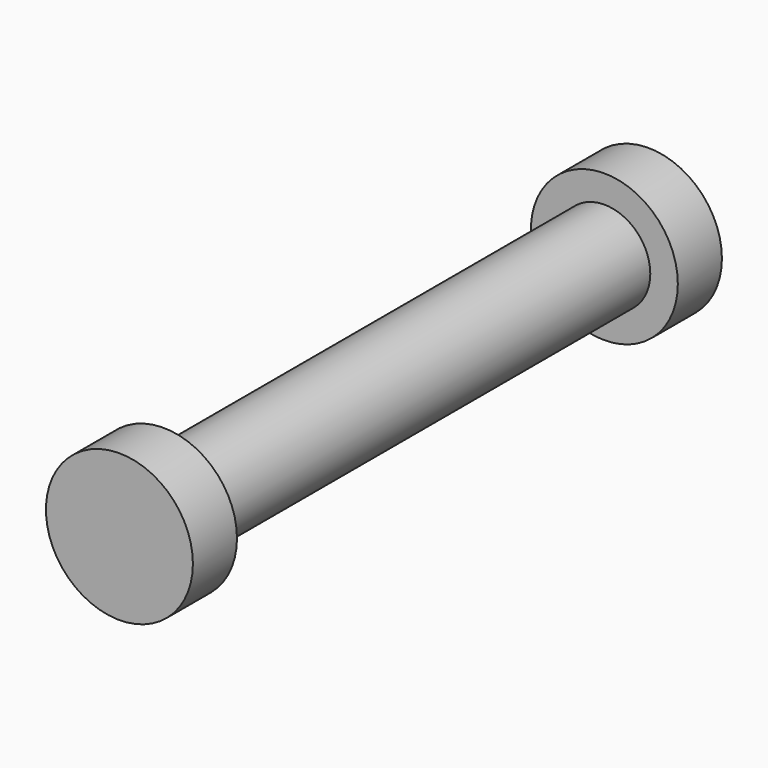
from build123d import *

# Parameters (mm, degrees)
F0_R     = 4
F1_DEPTH = 3
F2_R     = 2.5
F3_DEPTH = 30
F4_R     = 4
F4_R_2   = 2.5
F5_DEPTH = 3


with BuildPart() as f1:
    # F0 (on Front) → F1 (new body)
    with BuildSketch(Plane.XZ):
        Circle(F0_R)
    extrude(amount=F1_DEPTH)

    # F2 (on face) → F3 (join)
    with BuildSketch(Plane.XZ.offset(3)):
        Circle(F2_R)
    extrude(amount=F3_DEPTH)

    # F4 (on face) → F5 (join)
    with BuildSketch(Plane.XZ.offset(33)):
        Circle(F4_R)
        Circle(F4_R_2, mode=Mode.SUBTRACT)
        Circle(F4_R_2)
    extrude(amount=F5_DEPTH)


solid = f1.part
